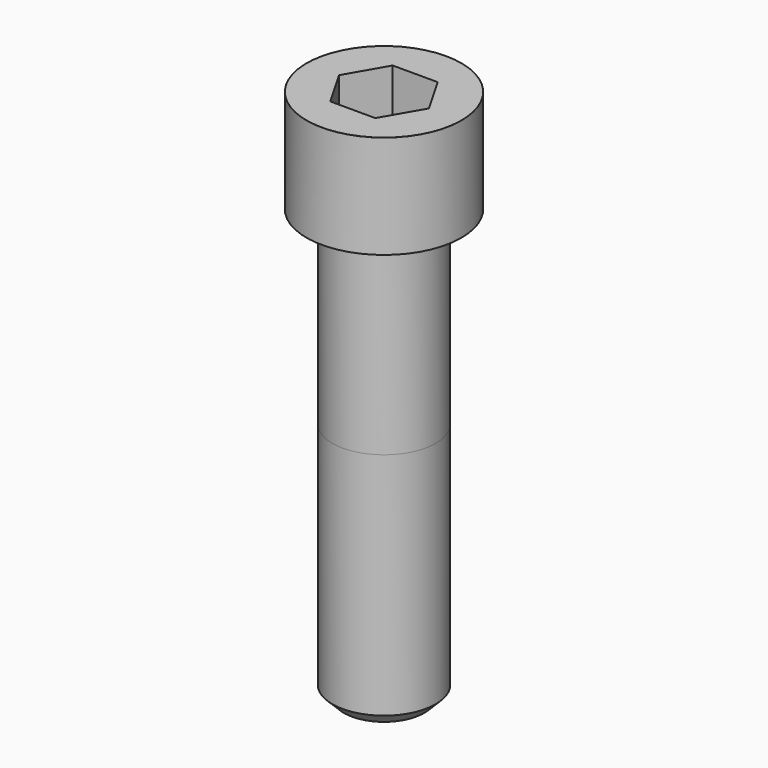
from build123d import *

# Parameters (mm, degrees)
POCKET_DEPTH = 27.15


with BuildPart() as part:
    # Sketch → Revolve (revolve)
    with BuildSketch(Plane.YZ):
        with BuildLine():
            Line((17.999, 0), (27, 0))
            Line((27, 0), (27, 35.97229))
            ThreePointArc((27, 35.97229), (26.991884, 35.991884), (26.97229, 36))
            Line((26.97229, 36), (0, 36))
            Line((0, -150), (0, 36))
            Line((14, -150), (0, -150))
            Line((18, -146), (14, -150))
            Line((18, -66), (18, -146))
            Line((17.999, 0), (18, -66))
        make_face()
    revolve(axis=Axis((0, 0, 0), (0, 0, 1)))

    # Sketch001 → Pocket (cut)
    with BuildSketch(Plane.XY.offset(36)):
        Polygon((15.67506, 0), (7.83753, 13.575), (-7.83753, 13.575), (-15.67506, 0), (-7.83753, -13.575), (7.83753, -13.575), align=None)
    extrude(amount=-POCKET_DEPTH, mode=Mode.SUBTRACT)


solid = part.part
